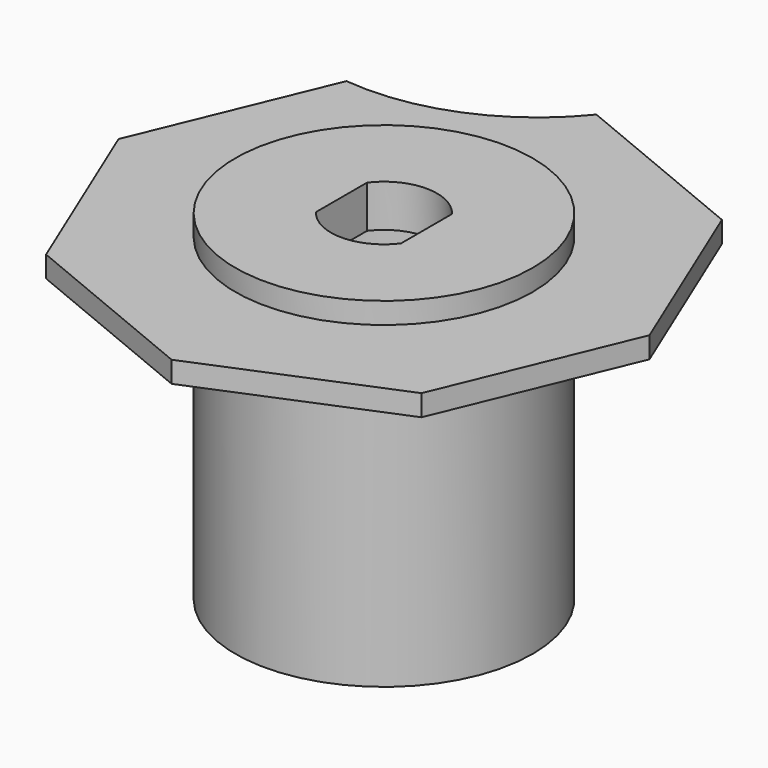
from build123d import *

# Parameters (mm, degrees)
F0_R      = 7
F1_DEPTH  = 16
F4_DEPTH  = 1
F5_R      = 4
F6_DEPTH  = 14
F8_DEPTH  = 16.001
F10_DEPTH = 15.001
F12_DEPTH = 15.002


with BuildPart() as f1:
    # F0 (on Top) → F1 (new body)
    with BuildSketch(Plane.XY):
        Circle(F0_R)
    extrude(amount=F1_DEPTH)

    # F3 (on offset) → F4 (join)
    with BuildSketch(Plane.XY.offset(15)):
        Polygon((8.8388347648, 8.8388347648), (0, 12.5), (-8.8388347648, 8.8388347648), (-12.5, 0), (-8.8388347648, -8.8388347648), (0, -12.5), (8.8388347648, -8.8388347648), (12.5, 0), align=None)
    extrude(amount=-F4_DEPTH)

    # F5 (on Top) → F6 (cut, through all)
    with BuildSketch(Plane.XY):
        Circle(F5_R)
    extrude(amount=F6_DEPTH, mode=Mode.SUBTRACT)

    # F7 (on face) → F8 (cut, through all)
    with BuildSketch(Plane.XY.offset(16)):
        with BuildLine():
            Line((-2, 1.5), (-2, -1.5))
            ThreePointArc((-2, -1.5), (0, -2.5), (2, -1.5))
            Line((2, -1.5), (2, 1.5))
            ThreePointArc((2, 1.5), (0, 2.5), (-2, 1.5))
        make_face()
    extrude(amount=-F8_DEPTH, mode=Mode.SUBTRACT)


with BuildPart() as f10:
    # F9 (on face) → F10 (new body, through all)
    with BuildSketch(Plane.XY.offset(15)):
        with BuildLine():
            Line((0, 12.5), (-8.8388347648, 8.8388347648))
            ThreePointArc((-8.8388347648, 8.8388347648), (-3.9531824429, 9.5438266683), (0, 12.5))
        make_face()
    extrude(amount=-F10_DEPTH)


with BuildPart() as f12_tool:
    # F11 (on face) → F12 (new body, through all)
    with BuildSketch(Plane.XY.offset(15)):
        with BuildLine():
            ThreePointArc((-8.8388347648, 8.8388347648), (-3.9531824429, 9.5438266683), (0, 12.5))
            Line((0, 12.5), (-8.8388347648, 8.8388347648))
        make_face()
    extrude(amount=-F12_DEPTH)


with BuildPart() as f1_1:
    add(f1.part)

    # F12: cut by f12_tool
    add(f12_tool.part, mode=Mode.SUBTRACT)


with BuildPart() as f10_1:
    add(f10.part)

    # F12: cut by f12_tool
    add(f12_tool.part, mode=Mode.SUBTRACT)


solid = f1_1.part
